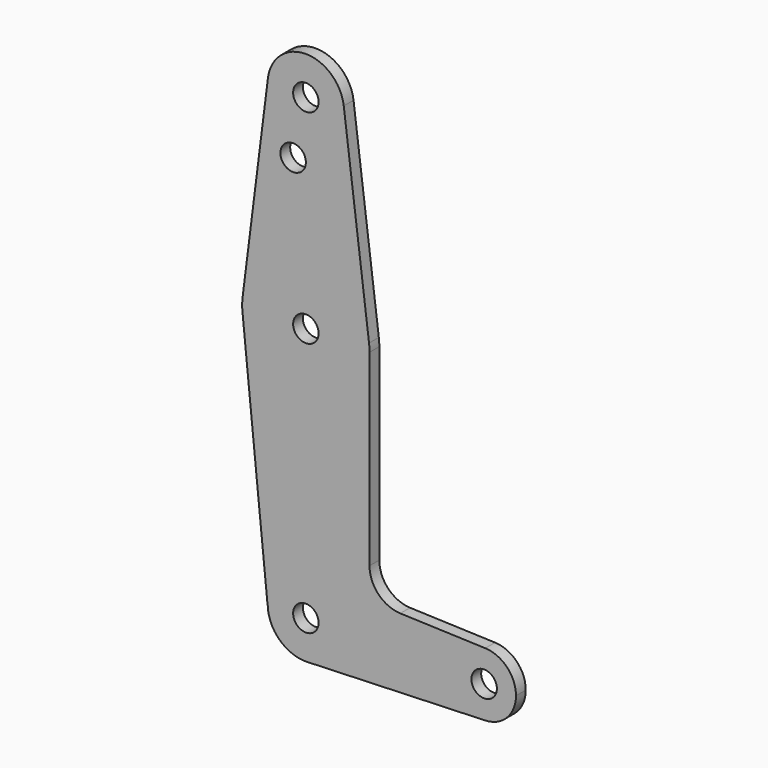
from build123d import *

# Parameters (mm, degrees)
F0_R     = 3.175
F1_DEPTH = 3.048


with BuildPart() as f1:
    # F0 (on Front) → F1 (new body)
    with BuildSketch(Plane.XZ):
        with BuildLine():
            Line((3.175, 0), (9.525, 0))
            ThreePointArc((9.525, 0), (0, 9.525), (-9.525, 0))
            Line((-9.525, 0), (-3.175, 0))
            ThreePointArc((-3.175, 0), (0, 3.175), (3.175, 0))
        make_face()
        with BuildLine():
            ThreePointArc((-9.525, 0), (0, 9.525), (9.525, 0))
            ThreePointArc((9.525, 0), (6.8544082832, -6.6138273403), (0.3401785645, -9.5189234446))
            Line((0.3401785645, -9.5189234446), (44.7334821429, -7.9324362036))
            ThreePointArc((44.7334821429, -7.9324362036), (36.5125000183, -0.0005387766), (44.7324052746, 7.9324746146))
            Line((44.7324052746, 7.9324746146), (23.542342877, 8.6868653539))
            ThreePointArc((23.542342877, 8.6868653539), (18.1044286036, 11.1113023864), (15.875, 16.6320319279))
            Line((15.875, 16.6320319279), (15.875, 63.5))
            ThreePointArc((15.875, 63.5), (0.9941387366, 47.6561585096), (-15.7504882737, 61.515625))
            Line((-15.7504882737, 61.515625), (-9.5729082215, 0))
            Line((-9.5729082215, 0), (-9.525, 0))
        make_face()
        with BuildLine():
            ThreePointArc((0.3401785645, -9.5189234446), (6.8544082832, -6.6138273403), (9.525, 0))
            Line((9.525, 0), (3.175, 0))
            ThreePointArc((3.175, 0), (0, -3.175), (-3.175, 0))
            Line((-3.175, 0), (-9.525, 0))
            ThreePointArc((-9.525, 0), (-6.6138273403, -6.8544082832), (0.3401785645, -9.5189234446))
        make_face()
        with BuildLine():
            ThreePointArc((44.7324052746, 7.9324746146), (36.5125000183, -0.0005387766), (44.7334821429, -7.9324362036))
            ThreePointArc((44.7334821429, -7.9324362036), (50.1620069047, -5.5115227815), (52.3875, 0))
            ThreePointArc((52.3875, 0), (50.1616327839, 5.5119104847), (44.7324052746, 7.9324746146))
        make_face()
        with Locations((44.45, 0)):
            Circle(F0_R, mode=Mode.SUBTRACT)
        with BuildLine():
            ThreePointArc((-15.7504882737, 65.484375), (-15.875, 63.5), (-15.7504882737, 61.515625))
            ThreePointArc((-15.7504882737, 61.515625), (0.9941387366, 47.6561585096), (15.875, 63.5))
            ThreePointArc((15.875, 63.5), (15.8438414904, 64.4941387366), (15.7504882737, 65.484375))
            ThreePointArc((15.7504882737, 65.484375), (0, 79.375), (-15.7504882737, 65.484375))
        make_face()
        with Locations((0, 63.5)):
            Circle(F0_R, mode=Mode.SUBTRACT)
        with BuildLine():
            Line((-9.4502929642, 115.490625), (-15.7504882737, 65.484375))
            ThreePointArc((-15.7504882737, 65.484375), (0, 79.375), (15.7504882737, 65.484375))
            Line((15.7504882737, 65.484375), (9.4502929642, 115.490625))
            ThreePointArc((9.4502929642, 115.490625), (9.5063048942, 114.896483242), (9.525, 114.3))
            ThreePointArc((9.525, 114.3), (-0.596483242, 104.7936951058), (-9.4502929642, 115.490625))
        make_face()
        with Locations((-3.175, 100.0252)):
            Circle(F0_R, mode=Mode.SUBTRACT)
        with BuildLine():
            ThreePointArc((9.4502929642, 115.490625), (0, 123.825), (-9.4502929642, 115.490625))
            ThreePointArc((-9.4502929642, 115.490625), (-0.596483242, 104.7936951058), (9.525, 114.3))
            ThreePointArc((9.525, 114.3), (9.5063048942, 114.896483242), (9.4502929642, 115.490625))
        make_face()
        with Locations((0, 114.3)):
            Circle(F0_R, mode=Mode.SUBTRACT)
    extrude(amount=F1_DEPTH)


solid = f1.part
